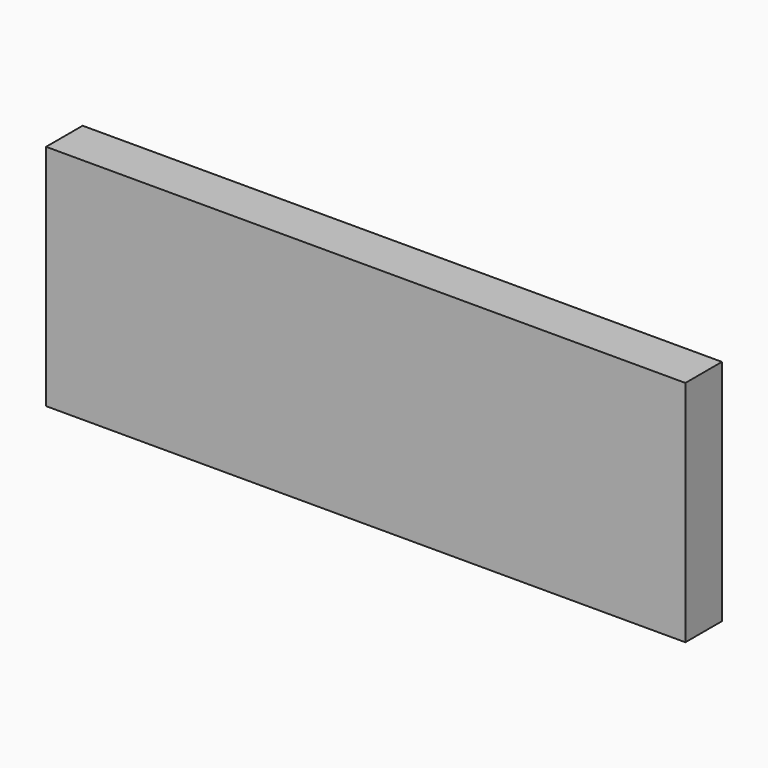
from build123d import *

# Parameters (mm, degrees)
SKETCH_W      = 140
SKETCH_H      = 10
EXTRUDE_DEPTH = 50


with BuildPart() as part:
    # Sketch → Extrude (new body)
    with BuildSketch(Plane.XY):
        Rectangle(SKETCH_W, SKETCH_H)
    extrude(amount=EXTRUDE_DEPTH)


solid = part.part
